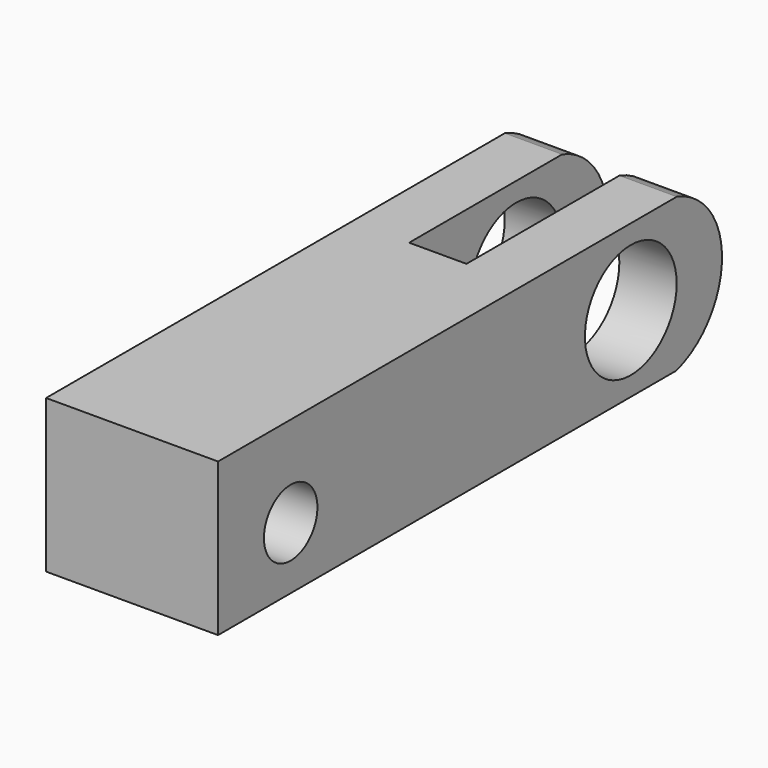
from build123d import *

# Parameters (mm, degrees)
F0_W     = 3
F0_H     = 13
F1_DEPTH = 8
F2_R     = 3
F3_DEPTH = 10
F4_DEPTH = 25
F5_DEPTH = 15
F6_R     = 1.75
F7_DEPTH = 25


with BuildPart() as f1:
    # F0 (on Top) → F1 (new body)
    with BuildSketch(Plane.XY):
        with Locations((-36.0112562776, 16.7272449248)):
            Rectangle(F0_W, F0_H)
        with Locations((-30.0112562776, 16.7272449248)):
            Rectangle(F0_W, F0_H)
        Polygon((-34.5112562776, 10.2272449248), (-37.5112562776, 10.2272449248), (-37.5112562776, 5.2272449248), (-28.5112562776, 5.2272449248), (-28.5112562776, 10.2272449248), (-31.5112562776, 10.2272449248), align=None)
    extrude(amount=F1_DEPTH)

    # F2 (on face) → F3 (cut)
    with BuildSketch(Plane.YZ.offset(-28.5112562776)):
        with Locations((17.2272449248, 4)):
            Circle(F2_R)
    extrude(amount=-F3_DEPTH, mode=Mode.SUBTRACT)

    # F2 (on face) → F4 (cut)
    with BuildSketch(Plane.YZ.offset(-28.5112562776)):
        with BuildLine():
            ThreePointArc((20.2339589596, 8), (23.1952457023, 3.989991066), (20.2070418745, 0))
            Line((20.2070418745, 0), (23.2272449248, 0))
            Line((23.2272449248, 0), (23.2272449248, 8))
            Line((23.2272449248, 8), (20.2339589596, 8))
        make_face()
    extrude(amount=-F4_DEPTH, mode=Mode.SUBTRACT)

    # F5 (add): a face of the model
    f5_faces = [f1.faces().sort_by_distance(p)[0] for p in [
        (-33.0112562776, 5.2272449248, 4),
    ]]
    extrude(f5_faces, amount=F5_DEPTH)

    # F6 (on face) → F7 (cut)
    with BuildSketch(Plane.YZ.offset(-28.5112562776)):
        with Locations((-5.0227550752, 3.25)):
            Circle(F6_R)
    extrude(amount=-F7_DEPTH, mode=Mode.SUBTRACT)


solid = f1.part
